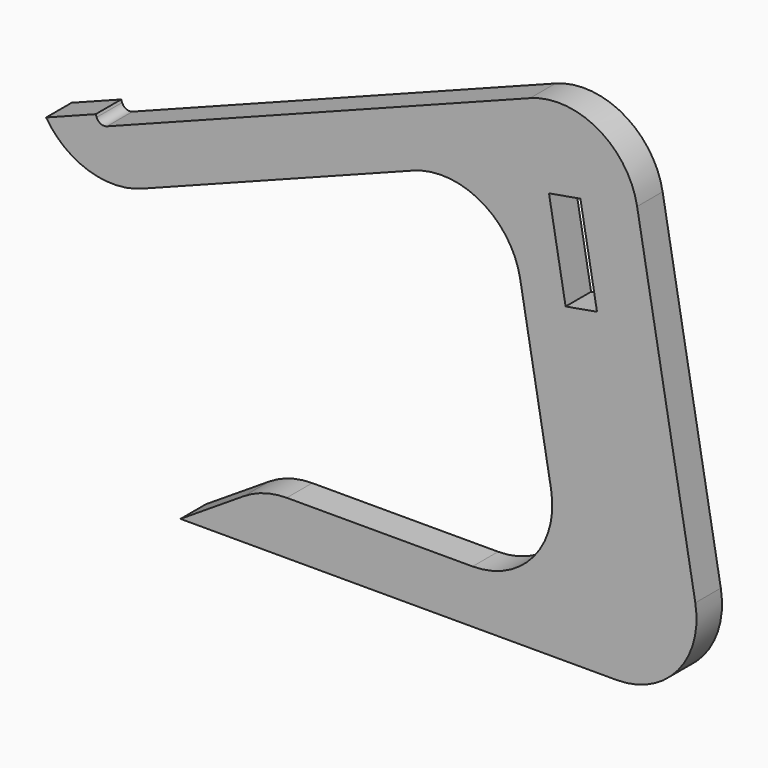
from build123d import *

# Parameters (mm, degrees)
F1_DEPTH = 12
F3_DEPTH = 12.001


with BuildPart() as f1:
    # F0 (on Front) → F1 (new body)
    with BuildSketch(Plane.XZ):
        with BuildLine():
            Line((-177.258248, 122.800741), (-177.616616, 123.734322))
            Line((-177.616616, 123.734322), (-196.288224, 116.566963))
            ThreePointArc((-196.288224, 116.566963), (-180.094478, 104.110785), (-159.679981, 104.912071))
            Line((-159.679981, 104.912071), (-58.121695, 143.896644))
            ThreePointArc((-58.121695, 143.896644), (-32.59795, 141.999902), (-17.826424, 121.098677))
            Line((-17.826424, 121.098677), (-6.208375, 55.209445))
            ThreePointArc((-6.208375, 55.209445), (-12.771274, 30.716372), (-35.752608, 20))
            Line((-35.752608, 20), (-105.70213, 20))
            ThreePointArc((-105.70213, 20), (-114.134669, 18.790489), (-121.887258, 15.259486))
            Line((-121.887258, 15.259486), (-145.70213, 0))
            Line((-145.70213, 0), (18.545262, 0))
            ThreePointArc((18.545262, 0), (41.526596, 10.716372), (48.089495, 35.209445))
            Line((48.089495, 35.209445), (26.188308, 159.417249))
            ThreePointArc((26.188308, 159.417249), (11.416782, 180.318475), (-14.106963, 182.215217))
            Line((-14.106963, 182.215217), (-173.382403, 121.075104))
            ThreePointArc((-173.382403, 121.075104), (-175.677717, 121.135209), (-177.258248, 122.800741))
        make_face()
    extrude(amount=F1_DEPTH)

    # F2 (on face) → F3 (cut, through all)
    with BuildSketch(Plane.XZ.offset(12)):
        Polygon((4.833857, 155.072484), (-6.983836, 152.988705), (-0.732502, 117.535626), (11.085191, 119.619404), align=None)
    extrude(amount=-F3_DEPTH, mode=Mode.SUBTRACT)


solid = f1.part
